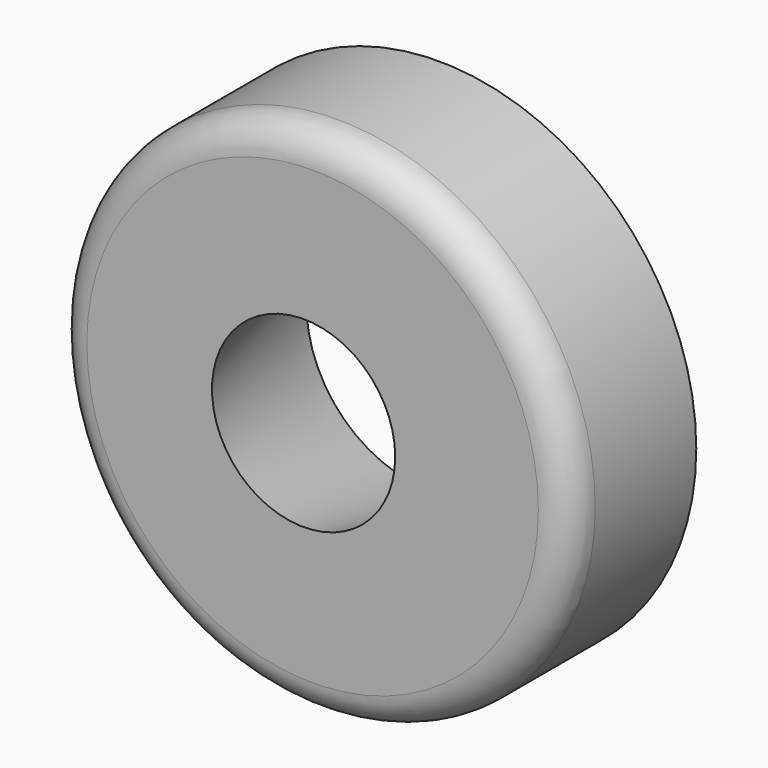
from build123d import *

# Parameters (mm, degrees)
F1_R     = 40.7423360253
F2_DEPTH = 25
F3_R     = 19.5601176406
F4_R     = 14.5028723408
F6_R     = 5
F7_T     = -2.5


with BuildPart() as f2:
    # F1 (on Front) → F2 (new body)
    with BuildSketch(Plane.XZ):
        with Locations((1.4253406553, 0)):
            Circle(F1_R)
    extrude(amount=F2_DEPTH)

    # F3 (on Front) → F5 section 0
    with BuildSketch(Plane.XZ):
        Circle(F3_R)
    # F4 (on offset) → F5 section 1
    with BuildSketch(Plane.XZ.offset(25)):
        Circle(F4_R)
    loft(mode=Mode.SUBTRACT)

    # F6
    f6_edges = [f2.edges().sort_by_distance(p)[0] for p in [
        (-39.316995, -25, 0),
    ]]
    fillet(f6_edges, radius=F6_R)

    # F7
    f7_openings = [f2.faces().sort_by_distance(p)[0] for p in [
        (-38.164628, 0, 0),
    ]]
    offset(amount=F7_T, openings=f7_openings, kind=Kind.INTERSECTION)


solid = f2.part
